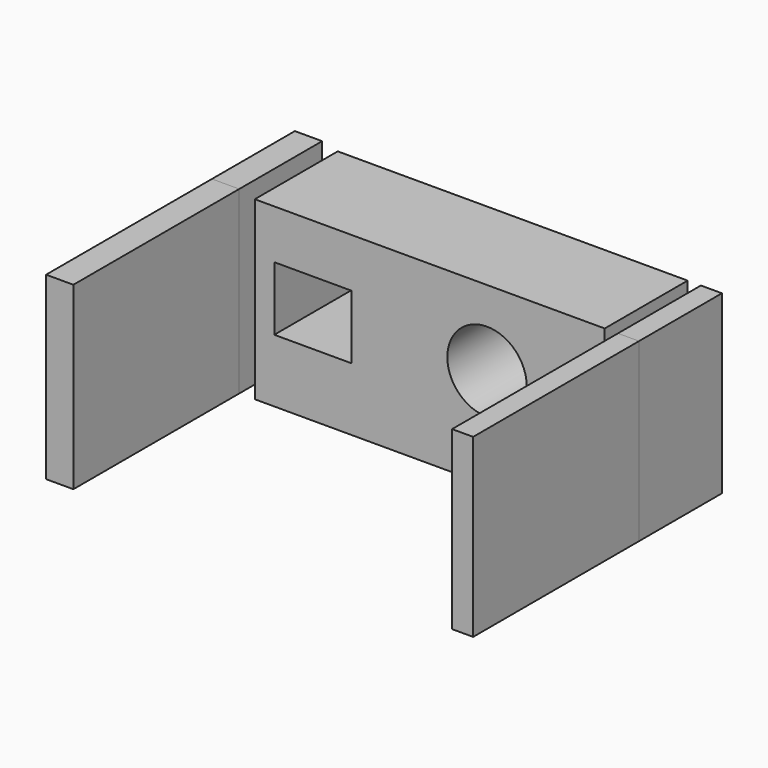
from build123d import *

# Parameters (mm, degrees)
F0_W        = 6.683412
F0_H        = 44.110525
F0_W_2      = 5.155776
F0_H_2      = 43.155752
F0_W_3      = 85.73864
F0_W_4      = 18.904511
F0_H_3      = 15.658283
F0_R        = 9.736816
F1_DEPTH    = 25.4
F1_FACE_W   = 5.155776
F1_FACE_H   = 43.155752
F1_FACE_W_2 = 6.683413
F1_FACE_H_2 = 44.110525
F2_DEPTH    = 50.8


with BuildPart() as f1:
    # F0 (on Front) → F1 (new body)
    with BuildSketch(Plane.XZ):
        with Locations((-51.271325, 17.663305)):
            Rectangle(F0_W, F0_H)
        with Locations((47.452232, 17.185919)):
            Rectangle(F0_W_2, F0_H_2)
        with Locations((-1.241205, 17.185919)):
            Rectangle(F0_W_3, F0_H_2)
        with Locations((-29.884403, 18.904511)):
            Rectangle(F0_W_4, F0_H_3, mode=Mode.SUBTRACT)
        with Locations((12.793961, 20.050241)):
            Circle(F0_R, mode=Mode.SUBTRACT)
    extrude(amount=F1_DEPTH)


with BuildPart() as f2:
    # F1_face (on face) → F2 (new body)
    with BuildSketch(Plane(origin=(47.452232, -25.4, 17.185919), x_dir=(1, 0, 0), z_dir=(0, -1, 0))):
        Rectangle(F1_FACE_W, F1_FACE_H)
        with Locations((-98.723557, 0.477386)):
            Rectangle(F1_FACE_W_2, F1_FACE_H_2)
    extrude(amount=F2_DEPTH)


solid = Compound([f1.part, f2.part])
